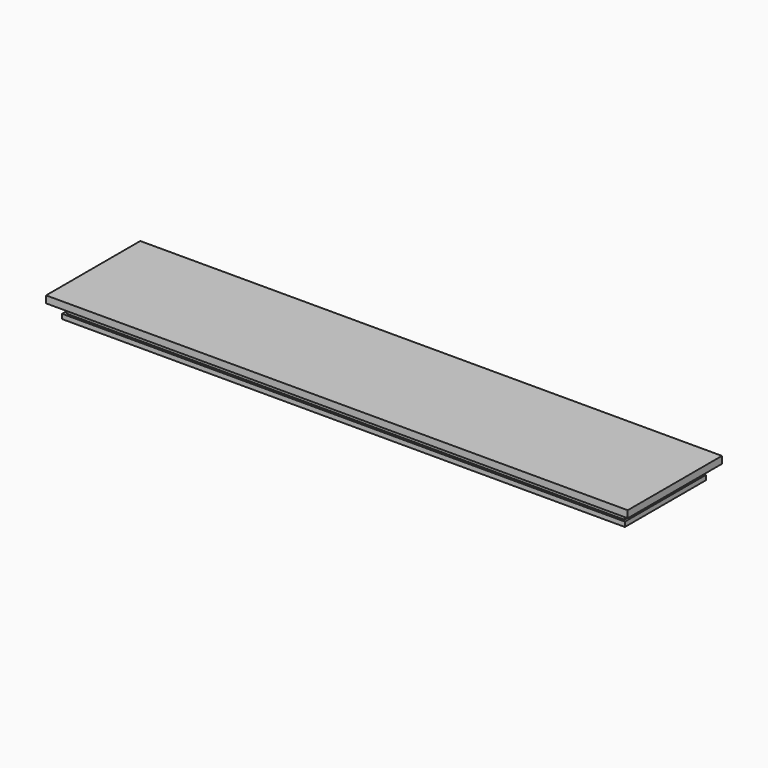
from build123d import *

# Parameters (mm, degrees)
F0_W     = 239
F0_H     = 43
F1_DEPTH = 2
F2_W     = 237
F2_H     = 41
F3_DEPTH = 2
F4_W     = 239
F4_H     = 43
F5_DEPTH = 2
F6_W     = 247
F6_H     = 50
F7_DEPTH = 3


with BuildPart() as f1:
    # F0 (on Top) → F1 (new body)
    with BuildSketch(Plane.XY):
        Rectangle(F0_W, F0_H)
    extrude(amount=F1_DEPTH)

    # F2 (on face) → F3 (join)
    with BuildSketch(Plane.XY.offset(2)):
        Rectangle(F2_W, F2_H)
    extrude(amount=F3_DEPTH)

    # F4 (on face) → F5 (join)
    with BuildSketch(Plane.XY.offset(4)):
        Rectangle(F4_W, F4_H)
    extrude(amount=F5_DEPTH)

    # F6 (on face) → F7 (join)
    with BuildSketch(Plane.XY.offset(6)):
        Rectangle(F6_W, F6_H)
    extrude(amount=F7_DEPTH)


solid = f1.part
